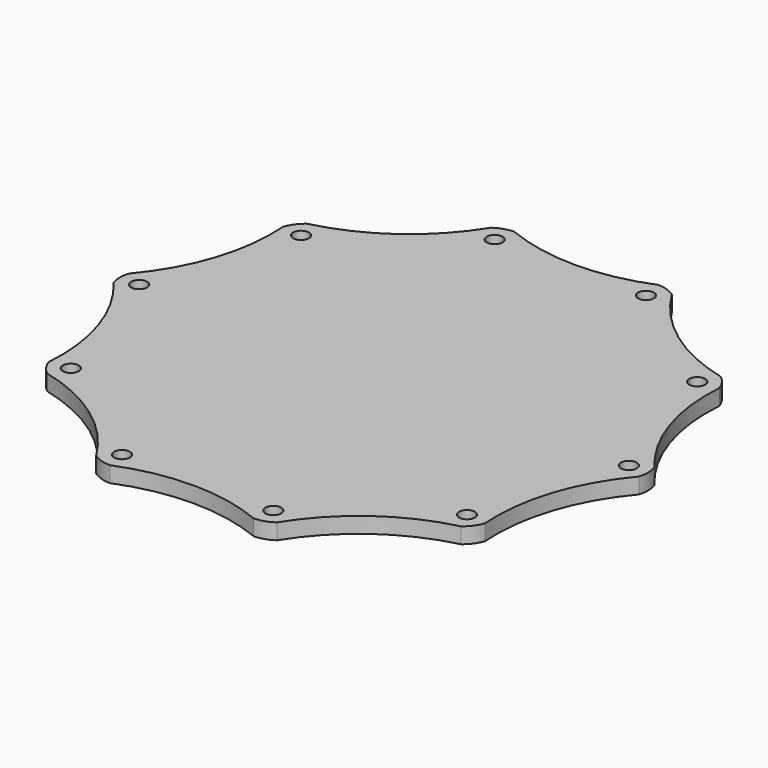
from build123d import *

# Parameters (mm, degrees)
F1_DEPTH = 6.35
F2_R     = 3.175
F3_DEPTH = 6.35
F4_R     = 12.7
F6_DEPTH = 6.35


with BuildPart() as f1:
    # F0 (on Top) → F1 (new body)
    with BuildSketch(Plane.XY):
        Polygon((33.0118411373, 101.6), (-33.0118411373, 101.6), (-86.4261221286, 62.792253257), (-106.8285619826, 0), (-86.4261221286, -62.792253257), (-33.0118411373, -101.6), (33.0118411373, -101.6), (86.4261221286, -62.792253257), (106.8285619826, 0), (86.4261221286, 62.792253257), align=None)
    extrude(amount=F1_DEPTH)

    # F2 (on face) → F3 (cut, through all)
    with BuildSketch(Plane.XY.offset(6.35)):
        with Locations((-30.4149976714, 93.6077376164)):
            Circle(F2_R)
        with Locations((-79.6274976714, 57.8527634569)):
            Circle(F2_R)
        with Locations((-98.425, 0)):
            Circle(F2_R)
        with Locations((-79.6274976714, -57.8527634569)):
            Circle(F2_R)
        with Locations((-30.4149976714, -93.6077376164)):
            Circle(F2_R)
        with Locations((30.4149976714, -93.6077376164)):
            Circle(F2_R)
        with Locations((79.6274976714, -57.8527634569)):
            Circle(F2_R)
        with Locations((98.425, 0)):
            Circle(F2_R)
        with Locations((79.6274976714, 57.8527634569)):
            Circle(F2_R)
        with Locations((30.4149976714, 93.6077376164)):
            Circle(F2_R)
    extrude(amount=-F3_DEPTH, mode=Mode.SUBTRACT)

    # F4
    f4_edges = [f1.edges().sort_by_distance(p)[0] for p in [
        (-86.426122, 62.792253, 3.175),
        (-106.828562, 0, 3.175),
        (-86.426122, -62.792253, 3.175),
        (-33.011841, -101.6, 3.175),
        (33.011841, -101.6, 3.175),
        (86.426122, -62.792253, 3.175),
        (106.828562, 0, 3.175),
        (33.011841, 101.6, 3.175),
        (86.426122, 62.792253, 3.175),
        (-33.011841, 101.6, 3.175),
    ]]
    fillet(f4_edges, radius=F4_R)

    # F5 (on face) → F6 (cut, through all)
    with BuildSketch(Plane.XY.offset(6.35)):
        with BuildLine():
            Line((28.8853609951, 101.6), (-28.8853609951, 101.6))
            ThreePointArc((-28.8853609951, 101.6), (0, 95.9129485994), (28.8853609951, 101.6))
        make_face()
        with BuildLine():
            Line((-36.3502336992, 99.1745158286), (-83.0877295666, 65.2177374284))
            ThreePointArc((-83.0877295666, 65.2177374284), (-56.3762166906, 77.5952053975), (-36.3502336992, 99.1745158286))
        make_face()
        with BuildLine():
            Line((-87.7012746194, 58.8677374284), (-105.5534094917, 3.9245158286))
            ThreePointArc((-105.5534094917, 3.9245158286), (-91.2186347625, 29.6387310978), (-87.7012746194, 58.8677374284))
        make_face()
        with BuildLine():
            Line((-105.5534094917, -3.9245158286), (-87.7012746194, -58.8677374284))
            ThreePointArc((-87.7012746194, -58.8677374284), (-91.2186347625, -29.6387310978), (-105.5534094917, -3.9245158286))
        make_face()
        with BuildLine():
            Line((-83.0877295666, -65.2177374284), (-36.3502336992, -99.1745158286))
            ThreePointArc((-36.3502336992, -99.1745158286), (-56.3762166906, -77.5952053975), (-83.0877295666, -65.2177374284))
        make_face()
        with BuildLine():
            Line((-28.8853609951, -101.6), (28.8853609951, -101.6))
            ThreePointArc((28.8853609951, -101.6), (0, -95.9129485994), (-28.8853609951, -101.6))
        make_face()
        with BuildLine():
            Line((36.3502336992, -99.1745158286), (83.0877295666, -65.2177374284))
            ThreePointArc((83.0877295666, -65.2177374284), (56.3762166906, -77.5952053975), (36.3502336992, -99.1745158286))
        make_face()
        with BuildLine():
            Line((87.7012746194, -58.8677374284), (105.5534094917, -3.9245158286))
            ThreePointArc((105.5534094917, -3.9245158286), (91.2186347625, -29.6387310978), (87.7012746194, -58.8677374284))
        make_face()
        with BuildLine():
            Line((105.5534094917, 3.9245158286), (87.7012746194, 58.8677374284))
            ThreePointArc((87.7012746194, 58.8677374284), (91.2186347625, 29.6387310978), (105.5534094917, 3.9245158286))
        make_face()
        with BuildLine():
            Line((83.0877295666, 65.2177374284), (36.3502336992, 99.1745158286))
            ThreePointArc((36.3502336992, 99.1745158286), (56.3762166906, 77.5952053975), (83.0877295666, 65.2177374284))
        make_face()
    extrude(amount=-F6_DEPTH, mode=Mode.SUBTRACT)


solid = f1.part
